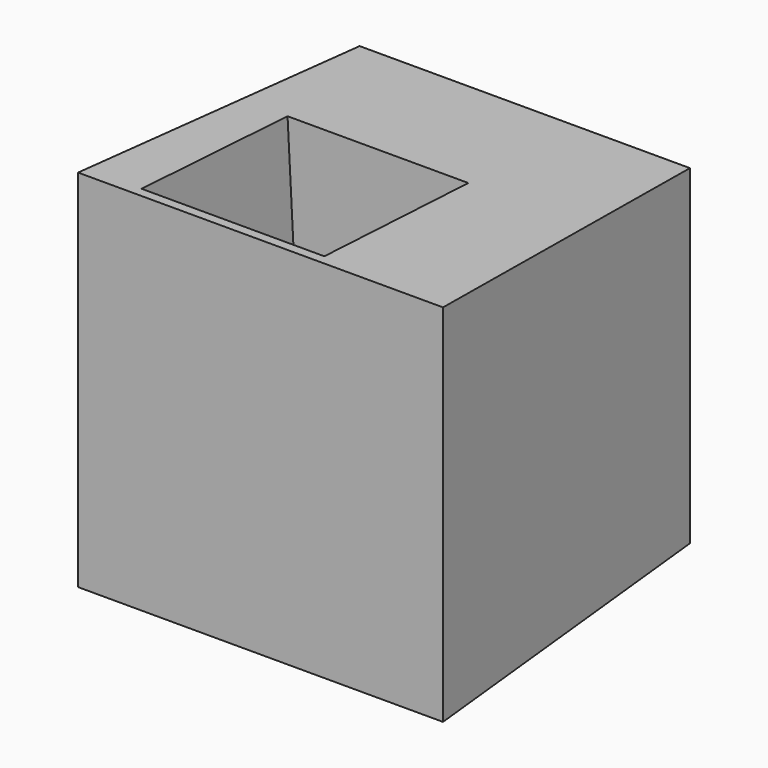
from build123d import *

# Parameters (mm, degrees)
F0_W     = 20
F0_H     = 20
F1_DEPTH = 20
F1_TAPER = -3
F2_W     = 8.7606683373
F2_H     = 8.6833424866
F3_DEPTH = 22.0670290499
F3_TAPER = -3


with BuildPart() as f1:
    # F0 (on Front) → F1 (new body)
    with BuildSketch(Plane.XZ):
        Rectangle(F0_W, F0_H)
    extrude(amount=F1_DEPTH, taper=F1_TAPER)

    # F2 (on face) → F3 (cut, through all)
    with BuildSketch(Plane(origin=(0, 0.5226423163, -9.9726094768), x_dir=(1, 0, 0), z_dir=(0, 0.0523359562, -0.9986295348))):
        with Locations((-2.1733269095, 13.2727120072)):
            Rectangle(F2_W, F2_H)
    extrude(amount=-F3_DEPTH, taper=F3_TAPER, mode=Mode.SUBTRACT)


solid = f1.part
